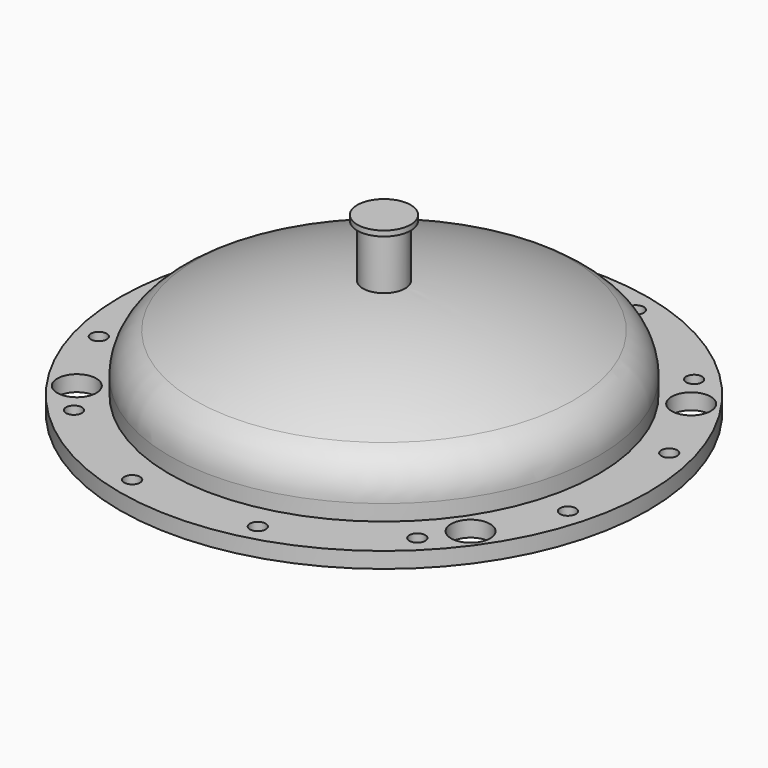
from build123d import *

# Parameters (mm, degrees)
F2_R          = 250
F2_R_2        = 200
F3_DEPTH      = 10
F3_DEPTH_BACK = 5
F4_R          = 7.5
F5_DEPTH      = 15
F7_R          = 20
F9_R          = 25.25
F10_DEPTH     = 5
F11_R         = 18.5
F12_DEPTH     = 20


with BuildPart() as f1:
    # F0 (on Front) → F1 (revolve)
    with BuildSketch(Plane.XZ):
        with BuildLine():
            Line((200, 20), (200, 0))
            Line((200, 0), (203, 0))
            Line((203, 0), (203, 20))
            ThreePointArc((203, 20), (196.5493669363, 42.6526770285), (179.1328476019, 58.5088839444))
            ThreePointArc((179.1328476019, 58.5088839444), (92.0009441475, 89.9153591058), (0, 100.6000003082))
            Line((0, 100.6000003082), (0, 97.6))
            ThreePointArc((0, 97.6), (91.3153782925, 86.994742746), (177.7979977692, 55.8222176227))
            ThreePointArc((177.7979977692, 55.8222176227), (193.9994111035, 41.072257701), (200, 20))
        make_face()
    revolve(axis=Axis((0, 0, 99.1000001541), (0, 0, 1)))

    # F2 (on face) → F3 (join, two sides)
    with BuildSketch(Plane(origin=(0, 0, 0), x_dir=(1, 0, 0), z_dir=(0, 0, -1))) as f3_sk:
        Circle(F2_R)
        Circle(F2_R_2, mode=Mode.SUBTRACT)
    extrude(amount=F3_DEPTH)
    extrude(f3_sk.sketch, amount=-F3_DEPTH_BACK)

    # F4 (on face) → F5 (cut, through all)
    with BuildSketch(Plane.XY.offset(5)):
        with Locations((222.8771156759, 58.8813327608)):
            Circle(F4_R)
        with Locations((163.5765777171, 162.4312878175)):
            Circle(F4_R)
        with Locations((60.4458278584, 222.457910478)):
            Circle(F4_R)
        with Locations((-58.8813327608, 222.8771156759)):
            Circle(F4_R)
        with Locations((-162.4312878175, 163.5765777171)):
            Circle(F4_R)
        with Locations((-222.457910478, 60.4458278584)):
            Circle(F4_R)
        with Locations((-222.8771156759, -58.8813327608)):
            Circle(F4_R)
        with Locations((-163.5765777171, -162.4312878175)):
            Circle(F4_R)
        with Locations((-60.4458278584, -222.457910478)):
            Circle(F4_R)
        with Locations((58.8813327608, -222.8771156759)):
            Circle(F4_R)
        with Locations((162.4312878175, -163.5765777171)):
            Circle(F4_R)
        with Locations((222.457910478, -60.4458278584)):
            Circle(F4_R)
    extrude(amount=-F5_DEPTH, mode=Mode.SUBTRACT)

    # F7 (on offset) → F8 (join, up to the next surface of F1)
    with BuildSketch(Plane.XY.offset(150)):
        Circle(F7_R)
    extrude(until=Until.NEXT, dir=(0, 0, -1))

    # F9 (on face) → F10 (join)
    with BuildSketch(Plane.XY.offset(150)):
        Circle(F9_R)
    extrude(amount=F10_DEPTH)

    # F11 (on face) → F12 (cut)
    with BuildSketch(Plane.XY.offset(5)):
        with Locations((186.3570900757, 130.4886392699)):
            Circle(F11_R)
        with Locations((-186.3570900757, 130.4886392699)):
            Circle(F11_R)
        with Locations((-186.3570900757, -130.4886392699)):
            Circle(F11_R)
        with Locations((186.3570900757, -130.4886392699)):
            Circle(F11_R)
    extrude(amount=-F12_DEPTH, mode=Mode.SUBTRACT)


solid = f1.part
